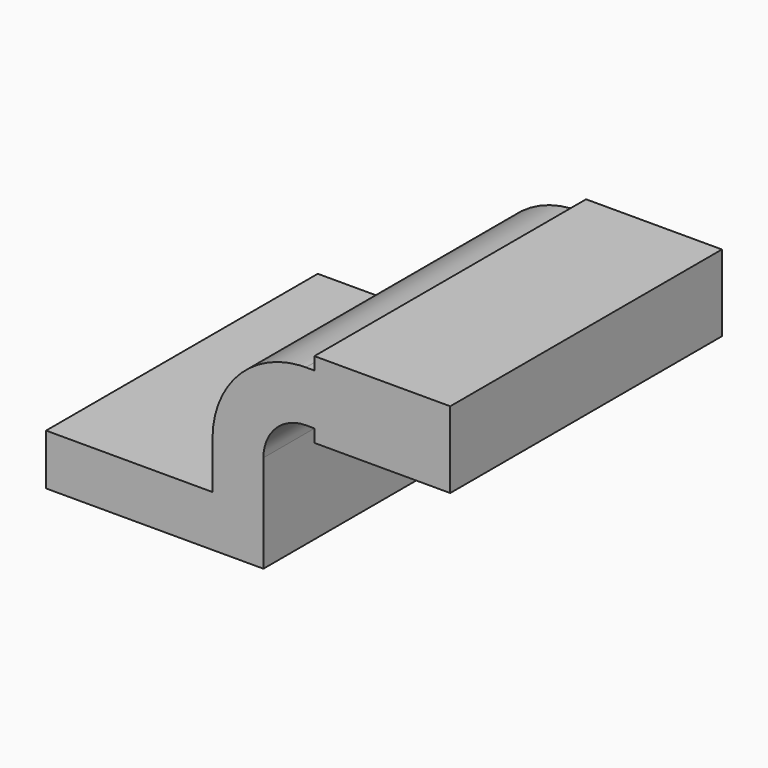
from build123d import *

# Parameters (mm, degrees)
F0_W     = 24.6055256037
F0_H     = 4.7752
F0_H_2   = 4.7498
F0_H_3   = 19.05
F1_DEPTH = 63.5


with BuildPart() as f1:
    # F0 (on Front) → F1 (new body, symmetric)
    with BuildSketch(Plane.XZ):
        with BuildLine():
            ThreePointArc((56.515, 61.9252), (55.3078445888, 61.9043315723), (54.1021317795, 61.8417512277))
            add(Edge.make_bspline(
                [(54.1021317795, 61.8417512277), (54.9069035944, 61.8717262764), (55.7112681225, 61.8994528512), (56.515, 61.9252)],
                knots=[108.1784271966, 108.1784271966, 108.1784271966, 108.1784271966, 110.3851212122, 110.3851212122, 110.3851212122, 110.3851212122], degree=3))
        make_face()
        Polygon((-40.64, -9.525), (40.64, -9.525), (40.64, 9.525), (21.59, 9.525), (-40.64, 9.525), align=None)
        with Locations((71.9927628018, 40.4876)):
            Rectangle(F0_W, F0_H)
        with Locations((71.9927628018, 64.3001)):
            Rectangle(F0_W, F0_H_2)
        Polygon((84.2955256037, 61.9252), (84.2955256037, 42.8752), (84.2955256037, 38.1), (110.49, 38.1), (110.49, 66.675), (84.2955256037, 66.675), align=None)
        with Locations((71.9927628018, 52.4002)):
            Rectangle(F0_W, F0_H_3)
        with BuildLine():
            Line((21.59, 9.525), (40.64, 9.525))
            Line((40.64, 9.525), (40.64, 27.0002))
            ThreePointArc((40.64, 27.0002), (45.2896798487, 38.2255201513), (56.515, 42.8752))
            Line((56.515, 42.8752), (59.69, 42.8752))
            Line((59.69, 42.8752), (59.69, 61.9252))
            Line((59.69, 61.9252), (56.515, 61.9252))
            add(Edge.make_bspline(
                [(54.1021317795, 61.8417512277), (54.9069035944, 61.8717262764), (55.7112681225, 61.8994528512), (56.515, 61.9252)],
                knots=[108.1784271966, 108.1784271966, 108.1784271966, 108.1784271966, 110.3851212122, 110.3851212122, 110.3851212122, 110.3851212122], degree=3))
            ThreePointArc((54.1021317795, 61.8417512277), (30.9804640966, 50.827560349), (21.59, 27.0002))
            Line((21.59, 27.0002), (21.59, 9.525))
        make_face()
    extrude(amount=F1_DEPTH, both=True)


solid = f1.part
